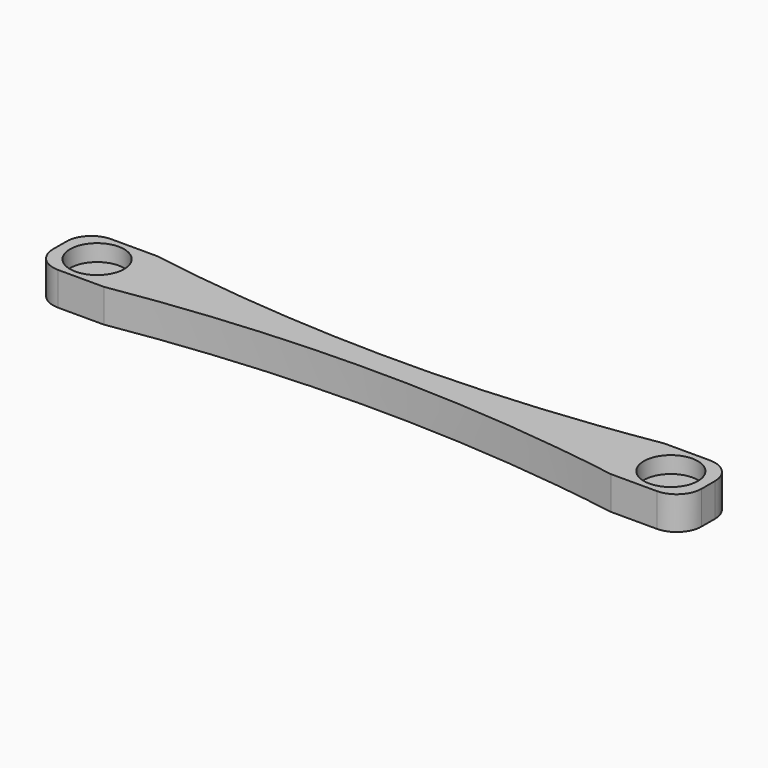
from build123d import *

# Parameters (mm, degrees)
CYLINDER097_R     = 3.25
CYLINDER097_DEPTH = 3.5
CYLINDER121_R     = 0.6
CYLINDER121_DEPTH = 9.5
CYLINDER122_R     = 0.6
CYLINDER122_DEPTH = 9.5
CYLINDER095_R     = 3.25
CYLINDER095_DEPTH = 3.5
PAD009_DEPTH      = 4
FILLET075_R       = 3


with BuildPart() as zylinder097:
    # Cylinder097 → Cylinder097 (new body)
    with BuildSketch(Plane(origin=(-52.5, 23, -36), x_dir=(1, 0, 0), z_dir=(0, 0, 1))):
        Circle(CYLINDER097_R)
    extrude(amount=CYLINDER097_DEPTH)


with BuildPart() as zylinder121:
    # Cylinder121 → Cylinder121 (new body)
    with BuildSketch(Plane(origin=(16.5, 23, -39), x_dir=(1, 0, 0), z_dir=(0, 0, 1))):
        Circle(CYLINDER121_R)
    extrude(amount=CYLINDER121_DEPTH)


with BuildPart() as zylinder122:
    # Cylinder122 → Cylinder122 (new body)
    with BuildSketch(Plane(origin=(-52.5, 23, -39), x_dir=(1, 0, 0), z_dir=(0, 0, 1))):
        Circle(CYLINDER122_R)
    extrude(amount=CYLINDER122_DEPTH)


with BuildPart() as fusion081:
    # Cylinder095 → Cylinder095 (new body)
    with BuildSketch(Plane(origin=(16.5, 23, -36), x_dir=(1, 0, 0), z_dir=(0, 0, 1))):
        Circle(CYLINDER095_R)
    extrude(amount=CYLINDER095_DEPTH)

    # Fusion081: union Zylinder097, Zylinder121, Zylinder122
    add(zylinder097.part)
    add(zylinder121.part)
    add(zylinder122.part)


with BuildPart() as fillet075:
    # Sketch009 → Pad009 (new body)
    with BuildSketch(Plane.XY):
        with BuildLine():
            add(Edge.make_bspline(
                [(-48.5, 19), (-18, 24), (12.5, 19)],
                knots=[0, 0, 0, 1, 1, 1], degree=2))
            Line((-48.5, 19), (-57, 19))
            Line((-57, 19), (-57, 27))
            Line((-57, 27), (-48.5, 27))
            add(Edge.make_bspline(
                [(-48.5, 27), (-18, 22), (12.5, 27)],
                knots=[0, 0, 0, 1, 1, 1], degree=2))
            Line((12.5, 27), (21, 27))
            Line((21, 27), (21, 19))
            Line((21, 19), (12.5, 19))
        make_face()
    extrude(amount=PAD009_DEPTH)


with BuildPart() as fillet075_1:
    # Body002 placement: moved
    add(fillet075.part.moved(Location((0, 0, -38))))

    # Cut061: cut Fusion081
    add(fusion081.part, mode=Mode.SUBTRACT)

    # Fillet075
    fillet075_edges = [fillet075_1.edges().sort_by_distance(p)[0] for p in [
        (-57, 19, -36),
        (21, 19, -36),
        (-57, 27, -36),
        (21, 27, -36),
    ]]
    fillet(fillet075_edges, radius=FILLET075_R)


solid = fillet075_1.part
